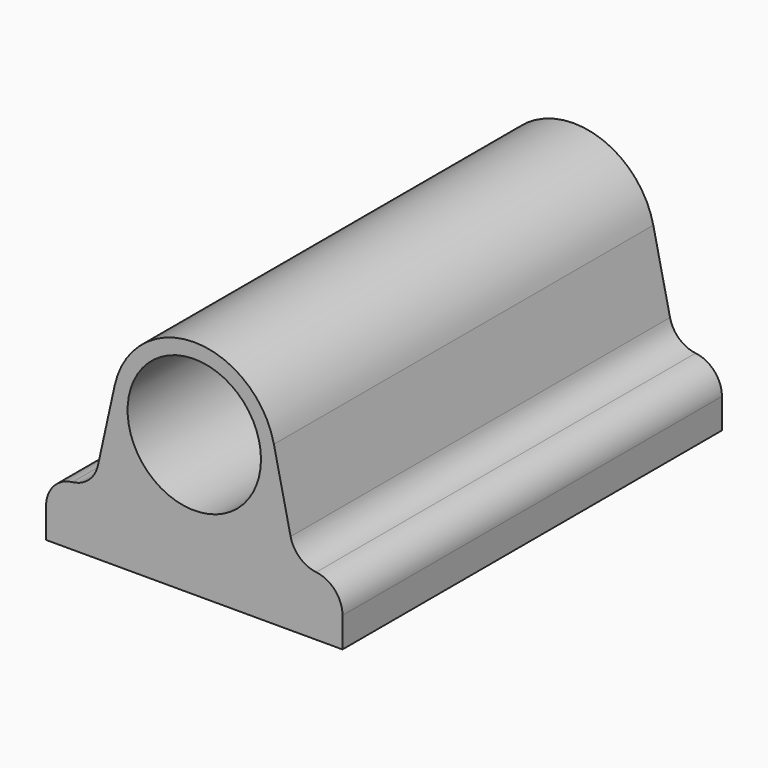
from build123d import *

# Parameters (mm, degrees)
F0_R     = 11.25
F1_DEPTH = 80
F2_DEPTH = 7.5
F3_R     = 5
F4_R     = 5


with BuildPart() as f1:
    # F0 (on Front) → F1 (new body)
    with BuildSketch(Plane.XZ):
        with BuildLine():
            ThreePointArc((13.75, 13.75), (9.722718, 4.027282), (0, 0))
            Line((0, 0), (17.110662, 0))
            Line((17.110662, 0), (13.427706, 16.709596))
            ThreePointArc((13.427706, 16.709596), (13.669189, 15.238546), (13.75, 13.75))
        make_face()
        Polygon((17.110662, 0), (0, 0), (-17.110662, 0), (-25, 0), (-25, -10), (25, -10), (25, 0), align=None)
        with BuildLine():
            Line((-17.110662, 0), (0, 0))
            ThreePointArc((0, 0), (-10.718137, 5.136985), (-13.427706, 16.709596))
            Line((-13.427706, 16.709596), (-17.110662, 0))
        make_face()
        with BuildLine():
            ThreePointArc((-13.427706, 16.709596), (-10.718137, 5.136985), (0, 0))
            ThreePointArc((0, 0), (9.722718, 4.027282), (13.75, 13.75))
            ThreePointArc((13.75, 13.75), (13.669189, 15.238546), (13.427706, 16.709596))
            ThreePointArc((13.427706, 16.709596), (0, 27.5), (-13.427706, 16.709596))
        make_face()
        with Locations((0, 13.75)):
            Circle(F0_R, mode=Mode.SUBTRACT)
    extrude(amount=F1_DEPTH)

    # F0 (on Front) → F2 (join)
    with BuildSketch(Plane.XZ):
        with Locations((0, 13.75)):
            Circle(F0_R)
    extrude(amount=F2_DEPTH)

    # F3
    f3_edges = [f1.edges().sort_by_distance(p)[0] for p in [
        (-17.110662, -40, 0),
        (17.110662, -40, 0),
    ]]
    fillet(f3_edges, radius=F3_R)

    # F4
    f4_edges = [f1.edges().sort_by_distance(p)[0] for p in [
        (-25, -40, 0),
        (25, -40, 0),
    ]]
    fillet(f4_edges, radius=F4_R)


solid = f1.part
